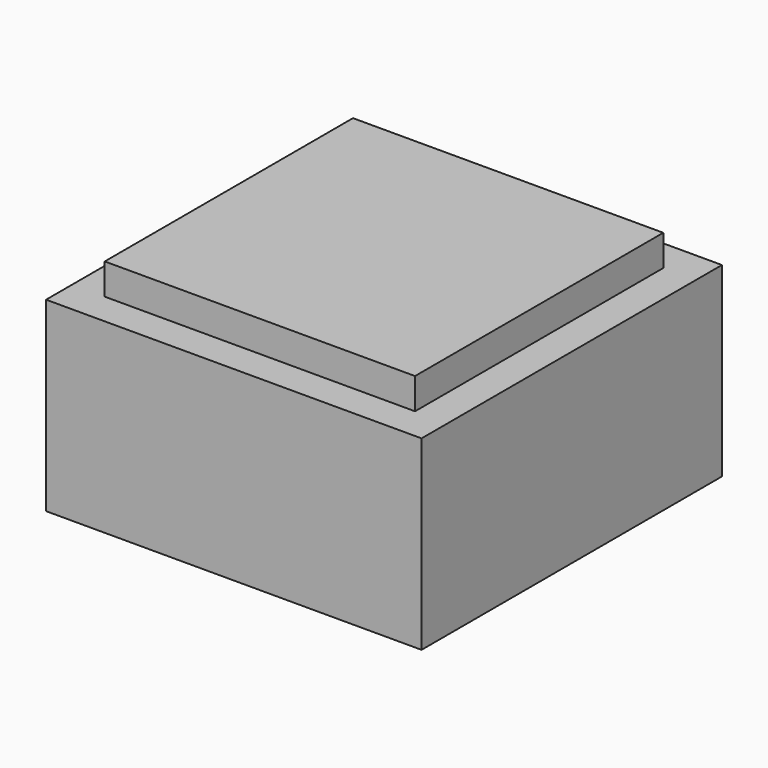
from build123d import *

# Parameters (mm, degrees)
F0_W     = 12.1
F0_H     = 12.1
F1_DEPTH = 6
F2_R     = 2
F3_DEPTH = 5
F4_W     = 10
F4_H     = 10
F5_DEPTH = 1


with BuildPart() as f1:
    # F0 (on Top) → F1 (new body)
    with BuildSketch(Plane.XY):
        with Locations((-39.792942, 6.276945)):
            Rectangle(F0_W, F0_H)
    extrude(amount=F1_DEPTH)

    # F2 (on face) → F3 (cut)
    with BuildSketch(Plane(origin=(0, 0, 0), x_dir=(1, 0, 0), z_dir=(0, 0, -1))):
        with Locations((-39.792942, -3.251945)):
            Circle(F2_R)
        with Locations((-39.792942, -9.301945)):
            Circle(F2_R)
    extrude(amount=-F3_DEPTH, mode=Mode.SUBTRACT)

    # F4 (on face) → F5 (join)
    with BuildSketch(Plane.XY.offset(6)):
        with Locations((-39.792942, 6.276945)):
            Rectangle(F4_W, F4_H)
    extrude(amount=F5_DEPTH)


solid = f1.part
